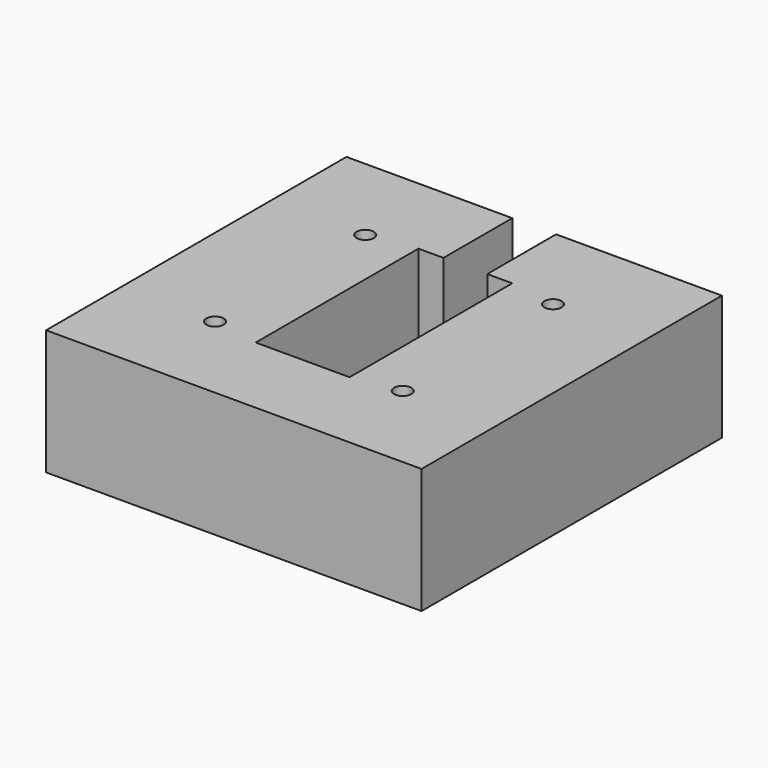
from build123d import *

# Parameters (mm, degrees)
F0_W     = 76.2
F0_H     = 76.2
F1_DEPTH = 25.4
F2_W     = 19.05
F2_H     = 41.275
F3_DEPTH = 25.4
F4_W     = 8.89
F4_H     = 17.4625
F5_DEPTH = 25.4
F7_D     = 3.5052


with BuildPart() as f1:
    # F0 (on Top) → F1 (new body)
    with BuildSketch(Plane.XY):
        Rectangle(F0_W, F0_H)
    extrude(amount=F1_DEPTH)

    # F2 (on face) → F3 (cut)
    with BuildSketch(Plane.XY.offset(25.4)):
        Rectangle(F2_W, F2_H)
    extrude(amount=-F3_DEPTH, mode=Mode.SUBTRACT)

    # F4 (on face) → F5 (cut)
    with BuildSketch(Plane.XY.offset(25.4)):
        with Locations((0, 29.36875)):
            Rectangle(F4_W, F4_H)
    extrude(amount=-F5_DEPTH, mode=Mode.SUBTRACT)

    # F7 (through all)
    with Locations(Plane.XY.offset(25.4)):
        with Locations((-19.05, 19.05), (-19.05, -19.05), (19.05, -19.05), (19.05, 19.05)):
            Hole(F7_D / 2)


solid = f1.part
